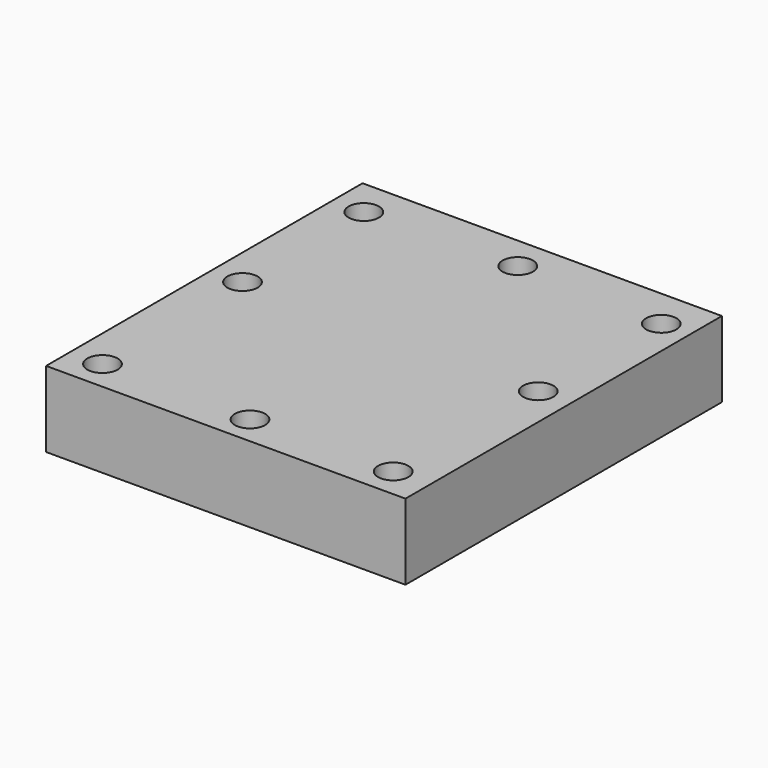
from build123d import *

# Parameters (mm, degrees)
F0_W     = 118.4896603227
F0_H     = 130.4209120572
F1_DEPTH = 25
F2_D     = 10


with BuildPart() as f1:
    # F0 (on Top) → F1 (new body)
    with BuildSketch(Plane.XY):
        with Locations((3.7028007209, -2.8799604625)):
            Rectangle(F0_W, F0_H)
    extrude(amount=F1_DEPTH)

    # F2 (through all)
    with Locations(Plane(origin=(0, 0, 0), x_dir=(1, 0, 0), z_dir=(0, 0, -1))):
        with Locations((-45.2564693987, -49.9878264964), (4.52564843, -51.2220934033), (53.484916687, -49.1649806499), (52.2506535053, 0), (51.0163828731, 58.2162737846), (4.1142245755, 58.6276985705), (-44.8450483382, 58.2162737846), (-45.2564693987, 0)):
            Hole(F2_D / 2)


solid = f1.part
